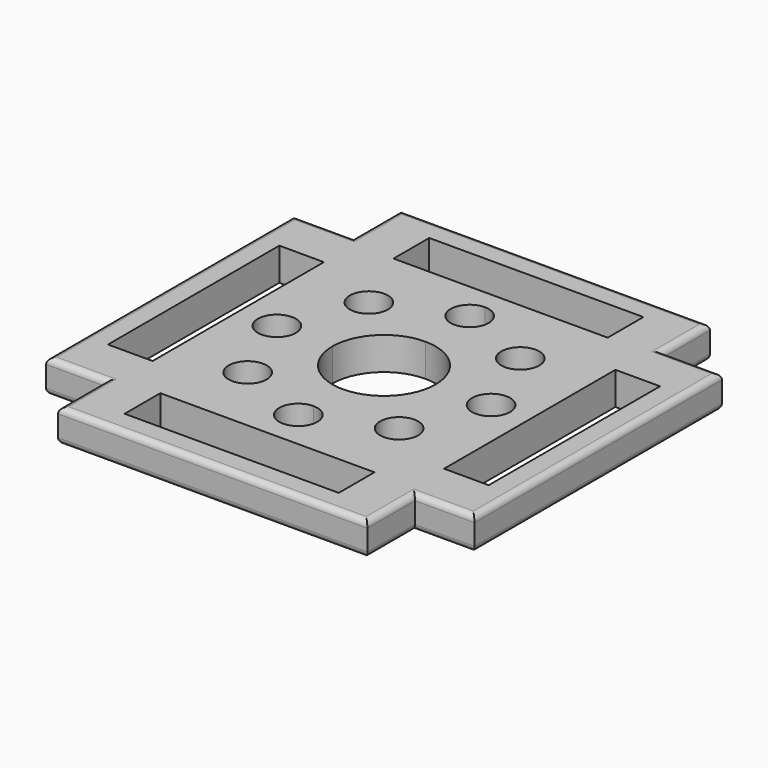
from build123d import *

# Parameters (mm, degrees)
F0_R     = 4.064
F1_DEPTH = 6.985
F2_R     = 1.27


with BuildPart() as f1:
    # F0 (on Top) → F1 (new body)
    with BuildSketch(Plane.XY):
        with BuildLine():
            ThreePointArc((-11.0109, 0), (-7.785882, 7.785882), (0, 11.0109))
            Line((0, 11.0109), (0, 18.796))
            ThreePointArc((0, 18.796), (-4.064, 22.86), (0, 26.924))
            Line((0, 26.924), (0, 31.115))
            Line((0, 31.115), (-22.86, 31.115))
            Line((-22.86, 31.115), (-22.86, 40.64))
            Line((-22.86, 40.64), (0, 40.64))
            Line((0, 40.64), (0, 45.72))
            Line((0, 45.72), (-33.02, 45.72))
            Line((-33.02, 45.72), (-33.02, 33.02))
            Line((-33.02, 33.02), (-45.72, 33.02))
            Line((-45.72, 33.02), (-45.72, 0))
            Line((-45.72, 0), (-40.64, 0))
            Line((-40.64, 0), (-40.64, 22.86))
            Line((-40.64, 22.86), (-31.115, 22.86))
            Line((-31.115, 22.86), (-31.115, 0))
            Line((-31.115, 0), (-26.924, 0))
            ThreePointArc((-26.924, 0), (-22.86, 4.064), (-18.796, 0))
            Line((-18.796, 0), (-11.0109, 0))
        make_face()
        with Locations((-16.164461, 16.164461)):
            Circle(F0_R, mode=Mode.SUBTRACT)
        with BuildLine():
            ThreePointArc((0, 11.0109), (7.785882, 7.785882), (11.0109, 0))
            Line((11.0109, 0), (18.796, 0))
            ThreePointArc((18.796, 0), (22.86, 4.064), (26.924, 0))
            Line((26.924, 0), (31.115, 0))
            Line((31.115, 0), (31.115, 22.86))
            Line((31.115, 22.86), (40.64, 22.86))
            Line((40.64, 22.86), (40.64, 0))
            Line((40.64, 0), (45.72, 0))
            Line((45.72, 0), (45.72, 33.02))
            Line((45.72, 33.02), (33.02, 33.02))
            Line((33.02, 33.02), (33.02, 45.72))
            Line((33.02, 45.72), (0, 45.72))
            Line((0, 45.72), (0, 40.64))
            Line((0, 40.64), (22.86, 40.64))
            Line((22.86, 40.64), (22.86, 31.115))
            Line((22.86, 31.115), (0, 31.115))
            Line((0, 31.115), (0, 26.924))
            ThreePointArc((0, 26.924), (2.873682, 25.733682), (4.064, 22.86))
            ThreePointArc((4.064, 22.86), (2.873682, 19.986318), (0, 18.796))
            Line((0, 18.796), (0, 11.0109))
        make_face()
        with Locations((16.164461, 16.164461)):
            Circle(F0_R, mode=Mode.SUBTRACT)
        with BuildLine():
            Line((18.796, 0), (11.0109, 0))
            ThreePointArc((11.0109, 0), (7.785882, -7.785882), (0, -11.0109))
            Line((0, -11.0109), (0, -18.796))
            ThreePointArc((0, -18.796), (2.873682, -19.986318), (4.064, -22.86))
            ThreePointArc((4.064, -22.86), (2.873682, -25.733682), (0, -26.924))
            Line((0, -26.924), (0, -31.115))
            Line((0, -31.115), (22.86, -31.115))
            Line((22.86, -31.115), (22.86, -40.64))
            Line((22.86, -40.64), (0, -40.64))
            Line((0, -40.64), (0, -45.72))
            Line((0, -45.72), (33.02, -45.72))
            Line((33.02, -45.72), (33.02, -33.02))
            Line((33.02, -33.02), (45.72, -33.02))
            Line((45.72, -33.02), (45.72, 0))
            Line((45.72, 0), (40.64, 0))
            Line((40.64, 0), (40.64, -22.86))
            Line((40.64, -22.86), (31.115, -22.86))
            Line((31.115, -22.86), (31.115, 0))
            Line((31.115, 0), (26.924, 0))
            ThreePointArc((26.924, 0), (22.86, -4.064), (18.796, 0))
        make_face()
        with Locations((16.164461, -16.164461)):
            Circle(F0_R, mode=Mode.SUBTRACT)
        with BuildLine():
            Line((0, -18.796), (0, -11.0109))
            ThreePointArc((0, -11.0109), (-7.785882, -7.785882), (-11.0109, 0))
            Line((-11.0109, 0), (-18.796, 0))
            ThreePointArc((-18.796, 0), (-22.86, -4.064), (-26.924, 0))
            Line((-26.924, 0), (-31.115, 0))
            Line((-31.115, 0), (-31.115, -22.86))
            Line((-31.115, -22.86), (-40.64, -22.86))
            Line((-40.64, -22.86), (-40.64, 0))
            Line((-40.64, 0), (-45.72, 0))
            Line((-45.72, 0), (-45.72, -33.02))
            Line((-45.72, -33.02), (-33.02, -33.02))
            Line((-33.02, -33.02), (-33.02, -45.72))
            Line((-33.02, -45.72), (0, -45.72))
            Line((0, -45.72), (0, -40.64))
            Line((0, -40.64), (-22.86, -40.64))
            Line((-22.86, -40.64), (-22.86, -31.115))
            Line((-22.86, -31.115), (0, -31.115))
            Line((0, -31.115), (0, -26.924))
            ThreePointArc((0, -26.924), (-4.064, -22.86), (0, -18.796))
        make_face()
        with Locations((-16.164461, -16.164461)):
            Circle(F0_R, mode=Mode.SUBTRACT)
    extrude(amount=F1_DEPTH)

    # F2
    f2_edges = [f1.edges().sort_by_distance(p)[0] for p in [
        (0, 45.72, 6.985),
        (-33.02, 39.37, 6.985),
        (-39.37, 33.02, 6.985),
        (-45.72, 0, 6.985),
        (-33.02, -39.37, 6.985),
        (-39.37, -33.02, 6.985),
        (0, -45.72, 6.985),
        (33.02, -39.37, 6.985),
        (39.37, -33.02, 6.985),
        (45.72, 0, 6.985),
        (39.37, 33.02, 6.985),
        (33.02, 39.37, 6.985),
        (0, -45.72, 0),
        (-33.02, -39.37, 0),
        (-39.37, -33.02, 0),
        (-45.72, 0, 0),
        (-39.37, 33.02, 0),
        (-33.02, 39.37, 0),
        (0, 45.72, 0),
        (33.02, 39.37, 0),
        (39.37, 33.02, 0),
        (45.72, 0, 0),
        (39.37, -33.02, 0),
        (33.02, -39.37, 0),
    ]]
    fillet(f2_edges, radius=F2_R)


solid = f1.part
